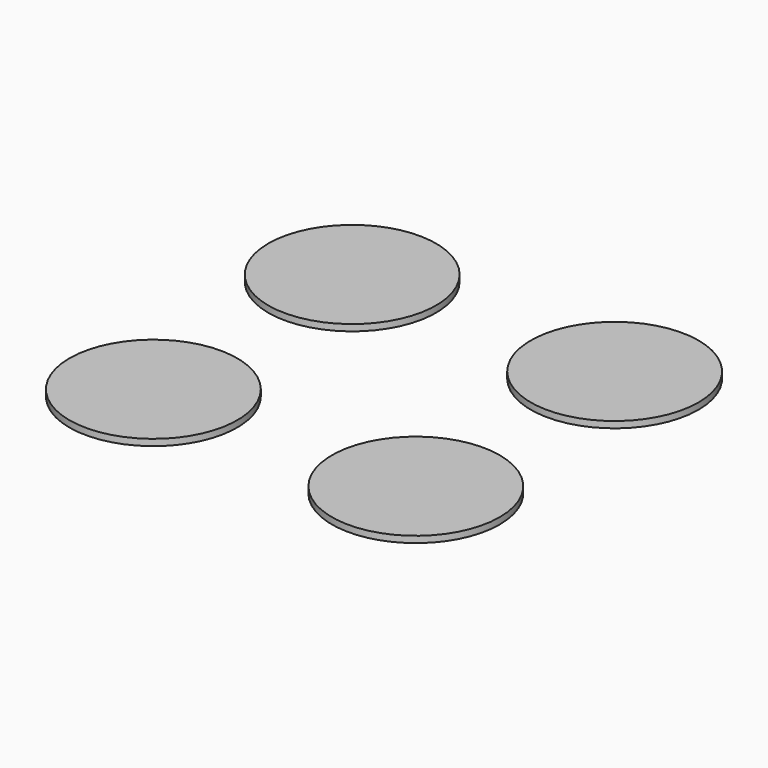
from build123d import *

# Parameters (mm, degrees)
F0_R     = 2.5
F1_DEPTH = 21
F2_R     = 65
F3_DEPTH = 5


with BuildPart() as f1:
    # F0 (on Top) → F1 (new body)
    with BuildSketch(Plane.XY):
        with Locations((101.658577, 96.257643)):
            Circle(F0_R)
    extrude(amount=F1_DEPTH)

    # F2 (on face) → F3 (join)
    with BuildSketch(Plane.XY.offset(21)):
        with Locations((101.658577, 96.257643)):
            Circle(F2_R)
    extrude(amount=F3_DEPTH)


with BuildPart() as f4_1:
    # F4: instance of F1
    add(f1.part.mirror(Plane.YZ))


with BuildPart() as f5_1:
    # F5: instance of F4_1
    add(f4_1.part.mirror(Plane.XZ))


with BuildPart() as f5_2:
    # F5: instance of F1
    add(f1.part.mirror(Plane.XZ))


solid = Compound([f1.part, f4_1.part, f5_1.part, f5_2.part])
